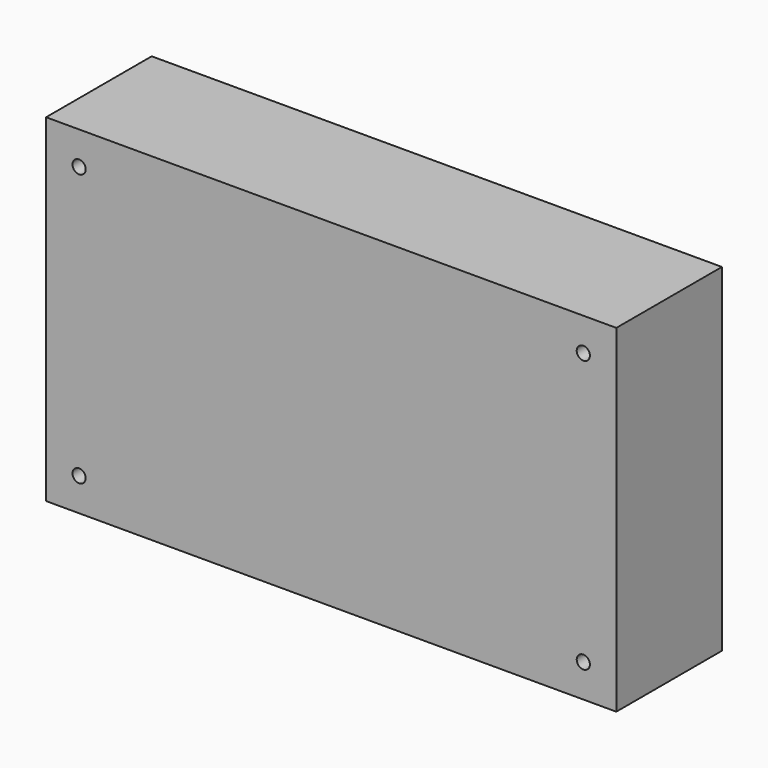
from build123d import *

# Parameters (mm, degrees)
F0_W     = 216
F0_H     = 128
F0_R     = 2.5
F1_DEPTH = 5
F2_W     = 216
F2_H     = 128
F2_W_2   = 208
F2_H_2   = 120
F3_DEPTH = 45


with BuildPart() as f1:
    # F0 (on Front) → F1 (new body)
    with BuildSketch(Plane.XZ):
        with Locations((-7.728394, 22.219788)):
            Rectangle(F0_W, F0_H)
        with Locations((-103.228394, -29.278811)):
            Circle(F0_R, mode=Mode.SUBTRACT)
        with Locations((87.771606, -29.280212)):
            Circle(F0_R, mode=Mode.SUBTRACT)
        with Locations((-103.228394, 73.719788)):
            Circle(F0_R, mode=Mode.SUBTRACT)
        with Locations((87.771606, 73.719788)):
            Circle(F0_R, mode=Mode.SUBTRACT)
    extrude(amount=F1_DEPTH)

    # F2 (on face) → F3 (join)
    with BuildSketch(Plane(origin=(0, 0, 0), x_dir=(-1, 0, 0), z_dir=(0, 1, 0))):
        with Locations((7.728394, 22.219788)):
            Rectangle(F2_W, F2_H)
        with Locations((7.728394, 22.219788)):
            Rectangle(F2_W_2, F2_H_2, mode=Mode.SUBTRACT)
    extrude(amount=F3_DEPTH)


solid = f1.part
